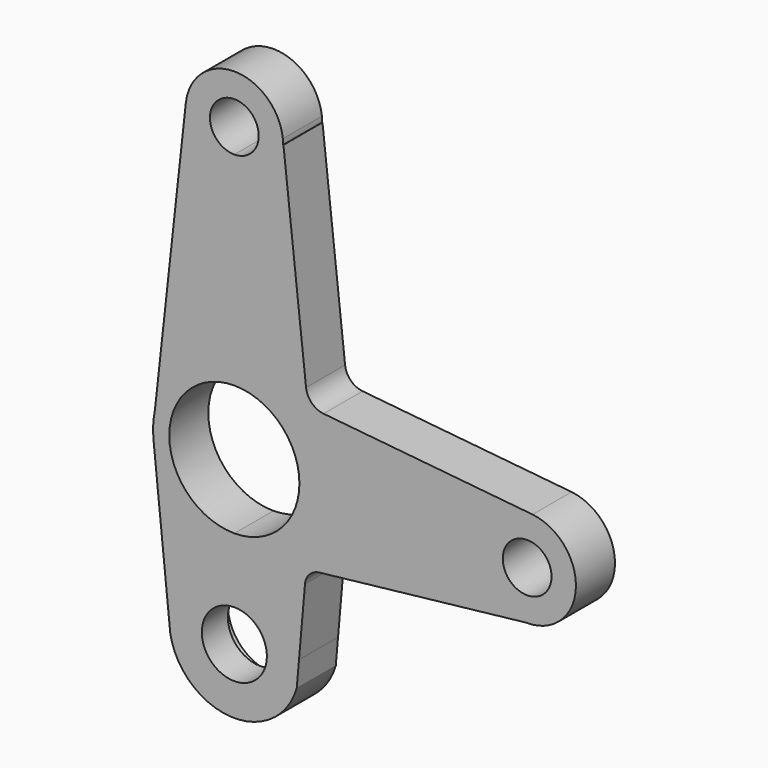
from build123d import *

# Parameters (mm, degrees)
F1_DEPTH = 15
F2_R     = 14
F3_DEPTH = 5


with BuildPart() as f1:
    # F0 (on Front) → F1 (new body)
    with BuildSketch(Plane.XZ):
        with BuildLine():
            Line((-24.872141, 47.474803), (-19.990894, -0.603442))
            Line((-19.990894, -0.603442), (-19.704258, -3.426693))
            ThreePointArc((-19.704258, -3.426693), (-1.160141, -19.966323), (19.17478, -5.685754))
            Line((19.17478, -5.685754), (19.870697, 2.270554))
            Line((19.870697, 2.270554), (21.71549, 23.3618))
            ThreePointArc((21.71549, 23.3618), (23.118462, 26.418668), (26.140523, 27.895123))
            Line((26.140523, 27.895123), (89.674425, 35.003534))
            ThreePointArc((89.674425, 35.003534), (104.966974, 49.005165), (91.662112, 64.907628))
            Line((91.662112, 64.907628), (27.415342, 71.284864))
            ThreePointArc((27.415342, 71.284864), (23.787285, 72.991068), (22.043768, 76.601343))
            Line((22.043768, 76.601343), (15.089959, 140))
            Line((15.089959, 140), (15, 140))
            ThreePointArc((15, 140), (14.977628, 140.818946), (14.910577, 141.635449))
            ThreePointArc((14.910577, 141.635449), (0.004289, 154.999999), (-14.909639, 141.643977))
            Line((-14.909639, 141.643977), (-24.428525, 55.314807))
            ThreePointArc((-24.428525, 55.314807), (-24.960075, 51.412331), (-24.872141, 47.474803))
        make_face()
        with BuildLine():
            ThreePointArc((10, 0), (-7.071068, -7.071068), (0, 10))
            ThreePointArc((0, 10), (7.071068, 7.071068), (10, 0))
        make_face(mode=Mode.SUBTRACT)
        with BuildLine():
            ThreePointArc((0, 30), (-20, 50), (0, 70))
            ThreePointArc((0, 70), (14.142136, 64.142136), (20, 50))
            ThreePointArc((20, 50), (14.142136, 35.857864), (0, 30))
        make_face(mode=Mode.SUBTRACT)
        with BuildLine():
            ThreePointArc((97.5, 50), (90, 42.5), (82.5, 50))
            ThreePointArc((82.5, 50), (90, 57.5), (97.5, 50))
        make_face(mode=Mode.SUBTRACT)
        with BuildLine():
            ThreePointArc((0, 132.5), (-5.303301, 145.303301), (7.5, 140))
            ThreePointArc((7.5, 140), (5.303301, 134.696699), (0, 132.5))
        make_face(mode=Mode.SUBTRACT)
    extrude(amount=F1_DEPTH)

    # F2 (on Front) → F3 (cut)
    with BuildSketch(Plane.XZ):
        Circle(F2_R)
    extrude(amount=F3_DEPTH, mode=Mode.SUBTRACT)


solid = f1.part
